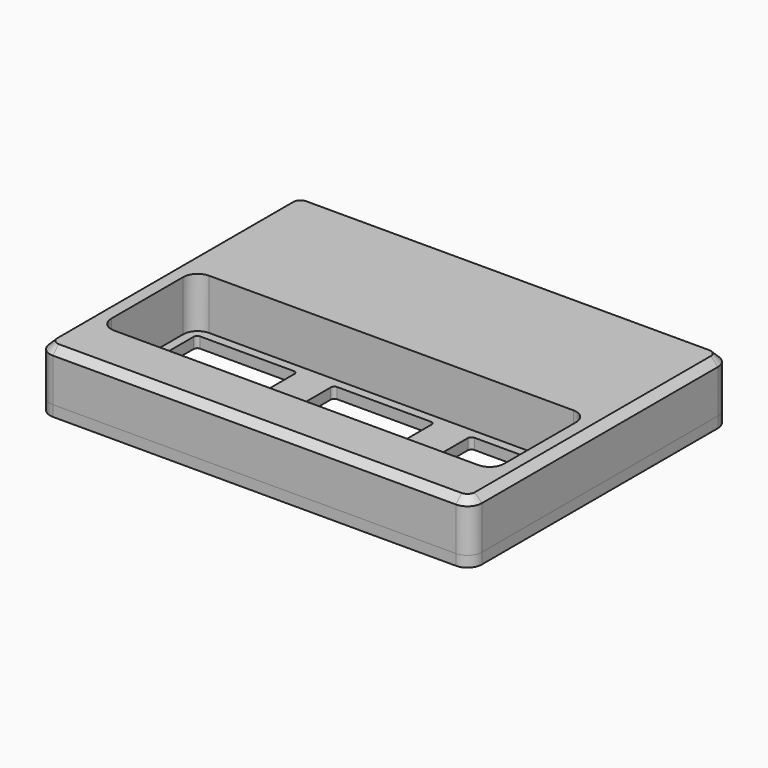
from build123d import *

# Parameters (mm, degrees)
EXTRUDE_DEPTH    = 1.5
EXTRUDE001_DEPTH = 7
CHAMFER_SIZE     = 1


with BuildPart() as top_plate:
    # Sketch → Extrude (new body)
    with BuildSketch(Plane.XY):
        with BuildLine():
            ThreePointArc((-28, 22.5), (-29.414214, 21.914214), (-30, 20.5))
            Line((-30, -20.5), (-30, 20.5))
            ThreePointArc((-30, -20.5), (-29.414214, -21.914214), (-28, -22.5))
            Line((28, -22.5), (-28, -22.5))
            ThreePointArc((28, -22.5), (29.414214, -21.914214), (30, -20.5))
            Line((30, 20.5), (30, -20.5))
            ThreePointArc((30, 20.5), (29.414214, 21.914214), (28, 22.5))
            Line((-28, 22.5), (28, 22.5))
        make_face()
        with BuildLine():
            ThreePointArc((-6.5, 0), (-6.853553, -0.146447), (-7, -0.5))
            Line((-7, -13.5), (-7, -0.5))
            ThreePointArc((-7, -13.5), (-6.853553, -13.853553), (-6.5, -14))
            Line((6.5, -14), (-6.5, -14))
            ThreePointArc((6.5, -14), (6.853553, -13.853553), (7, -13.5))
            Line((7, -0.5), (7, -13.5))
            ThreePointArc((7, -0.5), (6.853553, -0.146447), (6.5, 0))
            Line((-6.5, 0), (6.5, 0))
        make_face(mode=Mode.SUBTRACT)
        with BuildLine():
            ThreePointArc((-25.55, 0), (-25.903553, -0.146447), (-26.05, -0.5))
            Line((-26.05, -13.5), (-26.05, -0.5))
            ThreePointArc((-26.05, -13.5), (-25.903553, -13.853553), (-25.55, -14))
            Line((-12.55, -14), (-25.55, -14))
            ThreePointArc((-12.55, -14), (-12.196447, -13.853553), (-12.05, -13.5))
            Line((-12.05, -0.5), (-12.05, -13.5))
            ThreePointArc((-12.05, -0.5), (-12.196447, -0.146447), (-12.55, 0))
            Line((-25.55, 0), (-12.55, 0))
        make_face(mode=Mode.SUBTRACT)
        with BuildLine():
            ThreePointArc((12.55, 0), (12.196447, -0.146447), (12.05, -0.5))
            Line((12.05, -13.5), (12.05, -0.5))
            ThreePointArc((12.05, -13.5), (12.196447, -13.853553), (12.55, -14))
            Line((25.55, -14), (12.55, -14))
            ThreePointArc((25.55, -14), (25.903553, -13.853553), (26.05, -13.5))
            Line((26.05, -0.5), (26.05, -13.5))
            ThreePointArc((26.05, -0.5), (25.903553, -0.146447), (25.55, 0))
            Line((12.55, 0), (25.55, 0))
        make_face(mode=Mode.SUBTRACT)
    extrude(amount=EXTRUDE_DEPTH)


with BuildPart() as top_shroud_chamfered:
    # Sketch001 (on Face34 of Extrude) → Extrude001 (new body)
    with BuildSketch(Plane.XY.offset(1.5)):
        with BuildLine():
            ThreePointArc((-28, 22.5), (-29.414214, 21.914214), (-30, 20.5))
            Line((-30, -20.5), (-30, 20.5))
            ThreePointArc((-30, -20.5), (-29.414214, -21.914214), (-28, -22.5))
            Line((28, -22.5), (-28, -22.5))
            ThreePointArc((28, -22.5), (29.414214, -21.914214), (30, -20.5))
            Line((30, 20.5), (30, -20.5))
            ThreePointArc((30, 20.5), (29.414214, 21.914214), (28, 22.5))
            Line((-28, 22.5), (28, 22.5))
        make_face()
        with BuildLine():
            ThreePointArc((-25.3, 1.25), (-26.714214, 0.664214), (-27.3, -0.75))
            Line((-27.3, -13.25), (-27.3, -0.75))
            ThreePointArc((-27.3, -13.25), (-26.714214, -14.664214), (-25.3, -15.25))
            Line((25.3, -15.25), (-25.3, -15.25))
            ThreePointArc((25.3, -15.25), (26.714214, -14.664214), (27.3, -13.25))
            Line((27.3, -0.75), (27.3, -13.25))
            ThreePointArc((27.3, -0.75), (26.714214, 0.664214), (25.3, 1.25))
            Line((-25.3, 1.25), (25.3, 1.25))
        make_face(mode=Mode.SUBTRACT)
    extrude(amount=EXTRUDE001_DEPTH)

    # Chamfer
    chamfer_edges = [top_shroud_chamfered.edges().sort_by_distance(p)[0] for p in [
        (-29.414214, 21.914214, 8.5),
        (-30, 0, 8.5),
        (-29.414214, -21.914214, 8.5),
        (0, -22.5, 8.5),
        (29.414214, -21.914214, 8.5),
        (30, 0, 8.5),
        (29.414214, 21.914214, 8.5),
        (0, 22.5, 8.5),
    ]]
    chamfer(chamfer_edges, length=CHAMFER_SIZE)


solid = Compound([top_plate.part, top_shroud_chamfered.part])
